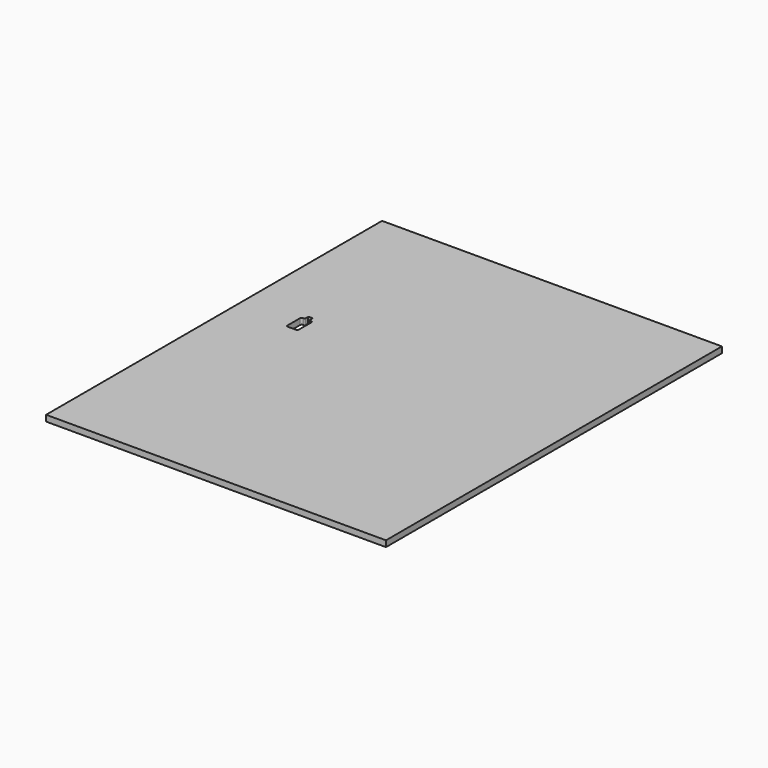
from build123d import *

# Parameters (mm, degrees)
F0_W     = 450
F0_H     = 556
F1_DEPTH = 8
F2_R     = 1
F3_R     = 2


with BuildPart() as f1:
    # F0 (on Top) → F1 (new body)
    with BuildSketch(Plane.XY):
        Rectangle(F0_W, F0_H)
        Polygon((-155, 32), (-155, 57), (-150.5, 57), (-150.5, 63), (-144.5, 63), (-144.5, 57), (-140, 57), (-140, 32), align=None, mode=Mode.SUBTRACT)
    extrude(amount=-F1_DEPTH)

    # F2
    f2_edges = [f1.edges().sort_by_distance(p)[0] for p in [
        (-144.5, 57, -4),
        (-150.5, 57, -4),
        (-144.5, 63, -4),
        (-150.5, 63, -4),
    ]]
    fillet(f2_edges, radius=F2_R)

    # F3
    f3_edges = [f1.edges().sort_by_distance(p)[0] for p in [
        (-140, 57, -4),
        (-140, 32, -4),
        (-155, 57, -4),
        (-155, 32, -4),
    ]]
    fillet(f3_edges, radius=F3_R)


solid = f1.part
